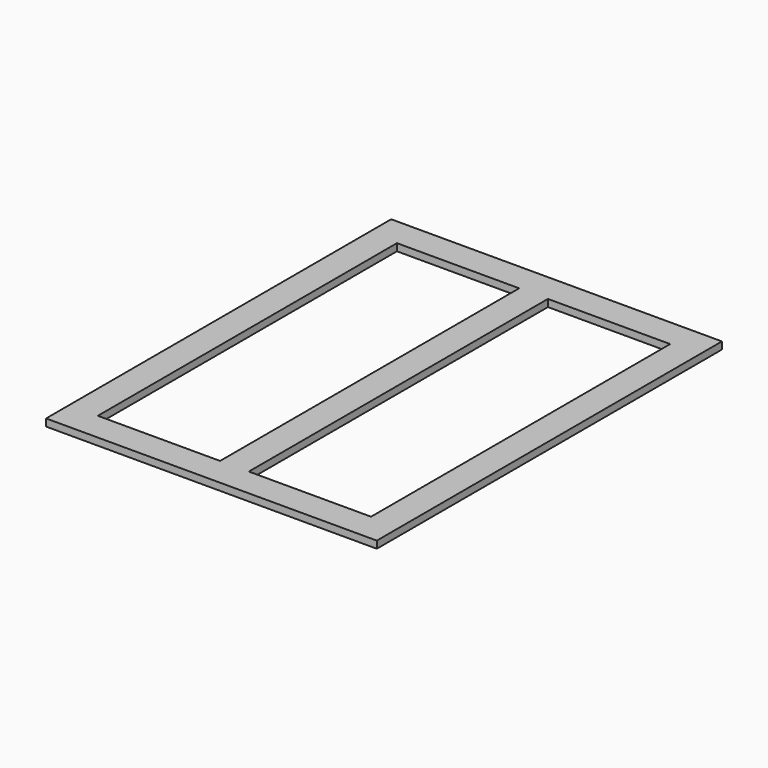
from build123d import *

# Parameters (mm, degrees)
F0_W     = 1150
F0_H     = 1500
F1_DEPTH = 25
F2_W     = 425
F2_H     = 1300
F3_DEPTH = 25


with BuildPart() as f1:
    # F0 (on Top) → F1 (new body)
    with BuildSketch(Plane.XY):
        with Locations((575, 750)):
            Rectangle(F0_W, F0_H)
    extrude(amount=F1_DEPTH)

    # F2 (on Top) → F3 (cut)
    with BuildSketch(Plane.XY):
        with Locations((312.5, 750)):
            Rectangle(F2_W, F2_H)
        with Locations((837.5, 750)):
            Rectangle(F2_W, F2_H)
    extrude(amount=F3_DEPTH, mode=Mode.SUBTRACT)


solid = f1.part
